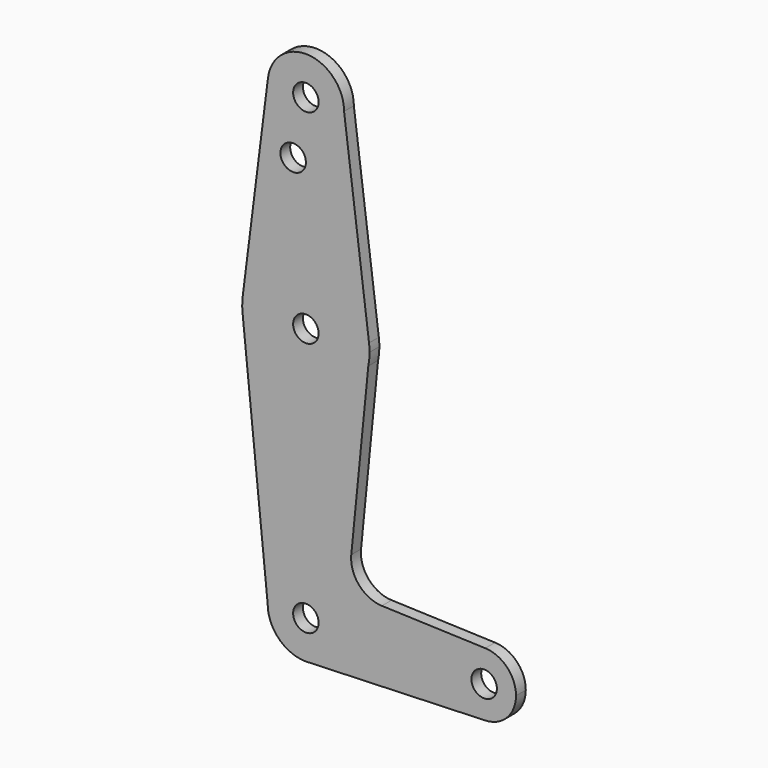
from build123d import *

# Parameters (mm, degrees)
F0_R     = 3.175
F1_DEPTH = 3.048


with BuildPart() as f1:
    # F0 (on Front) → F1 (new body)
    with BuildSketch(Plane.XZ):
        with BuildLine():
            ThreePointArc((0.677344, -9.500886), (6.970557, -6.491299), (9.525, 0))
            ThreePointArc((9.525, 0), (0, 9.525), (-9.525, 0))
            ThreePointArc((-9.525, 0), (-6.735192, -6.735192), (0, -9.525))
            Line((0, -9.525), (0.677344, -9.500886))
        make_face()
        Circle(F0_R, mode=Mode.SUBTRACT)
        with BuildLine():
            ThreePointArc((-9.525, 0), (0, 9.525), (9.525, 0))
            ThreePointArc((9.525, 0), (6.970557, -6.491299), (0.677344, -9.500886))
            Line((0.677344, -9.500886), (44.732405, -7.932475))
            ThreePointArc((44.732405, -7.932475), (36.5125, 0), (44.732405, 7.932475))
            Line((44.732405, 7.932475), (18.945412, 8.850521))
            ThreePointArc((18.945412, 8.850521), (13.241501, 11.5646), (11.316949, 17.580988))
            Line((11.316949, 17.580988), (15.565216, 60.379155))
            ThreePointArc((15.565216, 60.379155), (-0.769182, 47.643645), (-15.794203, 61.90038))
            Line((-15.794203, 61.90038), (-9.525, 0))
        make_face()
        with BuildLine():
            ThreePointArc((0, -9.525), (0.338886, -9.51897), (0.677344, -9.500886))
            Line((0.677344, -9.500886), (0, -9.525))
        make_face()
        with BuildLine():
            ThreePointArc((-15.750488, 65.484375), (-15.873819, 63.693615), (-15.794203, 61.90038))
            ThreePointArc((-15.794203, 61.90038), (-0.769182, 47.643645), (15.565216, 60.379155))
            Line((15.565216, 60.379155), (15.875, 63.5))
            ThreePointArc((15.875, 63.5), (15.843082, 64.506168), (15.747457, 65.508289))
            ThreePointArc((15.747457, 65.508289), (-0.012053, 79.374995), (-15.750488, 65.484375))
        make_face()
        with Locations((0, 63.5)):
            Circle(F0_R, mode=Mode.SUBTRACT)
        with BuildLine():
            ThreePointArc((44.732405, 7.932475), (36.5125, 0), (44.732405, -7.932475))
            ThreePointArc((44.732405, -7.932475), (50.161633, -5.51191), (52.3875, 0))
            ThreePointArc((52.3875, 0), (50.161633, 5.51191), (44.732405, 7.932475))
        make_face()
        with Locations((44.45, 0)):
            Circle(F0_R, mode=Mode.SUBTRACT)
        with BuildLine():
            Line((-9.450293, 115.490625), (-15.750488, 65.484375))
            ThreePointArc((-15.750488, 65.484375), (-0.012053, 79.374995), (15.747457, 65.508289))
            Line((15.747457, 65.508289), (9.525, 114.3))
            ThreePointArc((9.525, 114.3), (-0.596483, 104.793695), (-9.450293, 115.490625))
        make_face()
        with Locations((-3.175, 100.0252)):
            Circle(F0_R, mode=Mode.SUBTRACT)
        with BuildLine():
            Line((15.875, 63.5), (15.565216, 60.379155))
            ThreePointArc((15.565216, 60.379155), (15.797364, 61.931909), (15.875, 63.5))
        make_face()
        with BuildLine():
            ThreePointArc((9.525, 114.3), (0.596483, 123.806305), (-9.450293, 115.490625))
            ThreePointArc((-9.450293, 115.490625), (-0.596483, 104.793695), (9.525, 114.3))
        make_face()
        with Locations((0, 114.3)):
            Circle(F0_R, mode=Mode.SUBTRACT)
    extrude(amount=F1_DEPTH)


solid = f1.part
